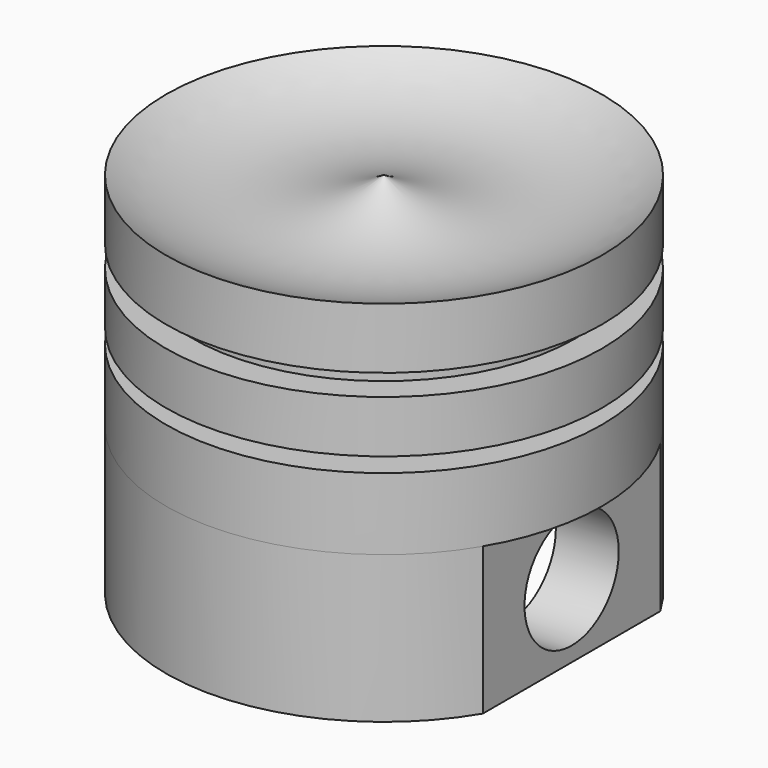
from build123d import *

# Parameters (mm, degrees)
F3_DEPTH = 12.7
F5_DEPTH = 17.78
F6_R     = 5.08
F7_DEPTH = 127


with BuildPart() as f1:
    # F0 (on Front) → F1 (revolve)
    with BuildSketch(Plane.XZ):
        with BuildLine():
            Line((0, 19.05), (0, 0))
            Line((0, 0), (18.796, 0))
            Line((18.796, 0), (18.796, 6.188184))
            Line((18.796, 6.188184), (14.927778, 6.188184))
            Line((14.927778, 6.188184), (14.927778, 7.456845))
            Line((14.927778, 7.456845), (18.796, 7.456845))
            Line((18.796, 7.456845), (18.796, 11.967639))
            Line((18.796, 11.967639), (16.478363, 11.967639))
            Line((16.478363, 11.967639), (16.478363, 13.800148))
            Line((16.478363, 13.800148), (18.796, 13.800148))
            Line((18.796, 13.800148), (18.796, 19.05))
            ThreePointArc((18.796, 19.05), (9.398, 16.252512), (0, 19.05))
        make_face()
    revolve(axis=Axis((0, 0, 9.525), (0, 0, 1)))

    # F2 (on face) → F3 (join)
    with BuildSketch(Plane(origin=(0, 0, 0), x_dir=(1, 0, 0), z_dir=(0, 0, -1))):
        with BuildLine():
            Line((-16.474965, 9.047936), (-16.474965, -9.047936))
            ThreePointArc((-16.474965, -9.047936), (-0.297239, -18.79365), (16.180593, -9.564415))
            Line((16.180593, -9.564415), (16.180593, 9.564415))
            ThreePointArc((16.180593, 9.564415), (-0.297239, 18.79365), (-16.474965, 9.047936))
        make_face()
    extrude(amount=F3_DEPTH)

    # F4 (on face) → F5 (cut)
    with BuildSketch(Plane(origin=(0, 0, -12.7), x_dir=(1, 0, 0), z_dir=(0, 0, -1))):
        with BuildLine():
            ThreePointArc((10.756946, 11.791121), (-0.043837, 16.528443), (-10.84462, 11.791121))
            Line((-10.84462, 11.791121), (-10.84462, -11.010531))
            ThreePointArc((-10.84462, -11.010531), (-0.043837, -16.126691), (10.756946, -11.010531))
            Line((10.756946, -11.010531), (10.756946, 11.791121))
        make_face()
    extrude(amount=-F5_DEPTH, mode=Mode.SUBTRACT)

    # F6 (on face) → F7 (cut)
    with BuildSketch(Plane.YZ.offset(16.180593)):
        with Locations((0, -6.35)):
            Circle(F6_R)
    extrude(amount=-F7_DEPTH, mode=Mode.SUBTRACT)


solid = f1.part
